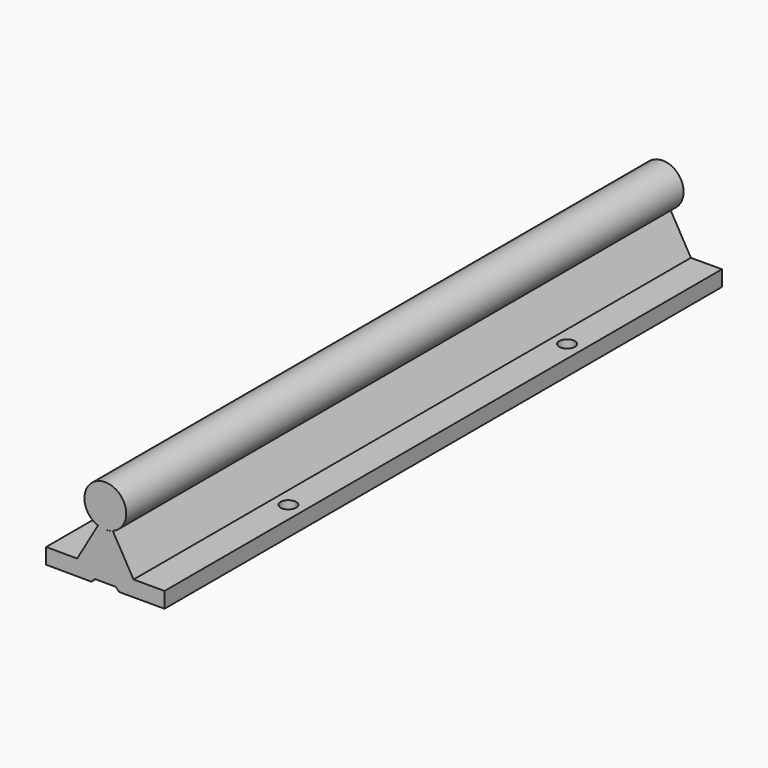
from build123d import *

# Parameters (mm, degrees)
F1_DEPTH = 200
F2_R     = 6
F3_DEPTH = 200
F4_R     = 2.25
F5_DEPTH = 26.461


with BuildPart() as f1:
    # F0 (on Front) → F1 (new body)
    with BuildSketch(Plane.XZ):
        with BuildLine():
            ThreePointArc((2.153722, 13.845509), (1.107413, 13.556125), (0.026086, 13.460011))
            ThreePointArc((0.026086, 13.460011), (-1.054859, 13.560315), (-2.100039, 13.853753))
            Line((-2.100039, 13.853753), (-8.086373, 3.53137))
            Line((-8.086373, 3.53137), (-16.986306, 3.565868))
            Line((-16.986306, 3.565868), (-17.003748, -0.934098))
            Line((-17.003748, -0.934098), (-4.003846, -0.984488))
            Line((-4.003846, -0.984488), (-2.999977, 0.011628))
            Line((-2.999977, 0.011628), (0, 0))
            Line((0, 0), (3, 0))
            Line((3, 0), (4, -1))
            Line((4, -1), (17, -1))
            Line((17, -1), (17, 3.5))
            Line((17, 3.5), (8.1, 3.5))
            Line((8.1, 3.5), (2.153722, 13.845509))
        make_face()
    extrude(amount=-F1_DEPTH)

    # F2 (on Front) → F3 (join)
    with BuildSketch(Plane.XZ):
        with Locations((0, 19.46)):
            Circle(F2_R)
    extrude(amount=-F3_DEPTH)

    # F4 (on face) → F5 (cut, through all)
    with BuildSketch(Plane(origin=(0, 0, -1), x_dir=(1, 0, 0), z_dir=(0, 0, -1))):
        with Locations((12.55, -50)):
            Circle(F4_R)
        with Locations((12.55, -150)):
            Circle(F4_R)
        with Locations((-12.55, -150)):
            Circle(F4_R)
        with Locations((-12.55, -50)):
            Circle(F4_R)
    extrude(amount=-F5_DEPTH, mode=Mode.SUBTRACT)


solid = f1.part
